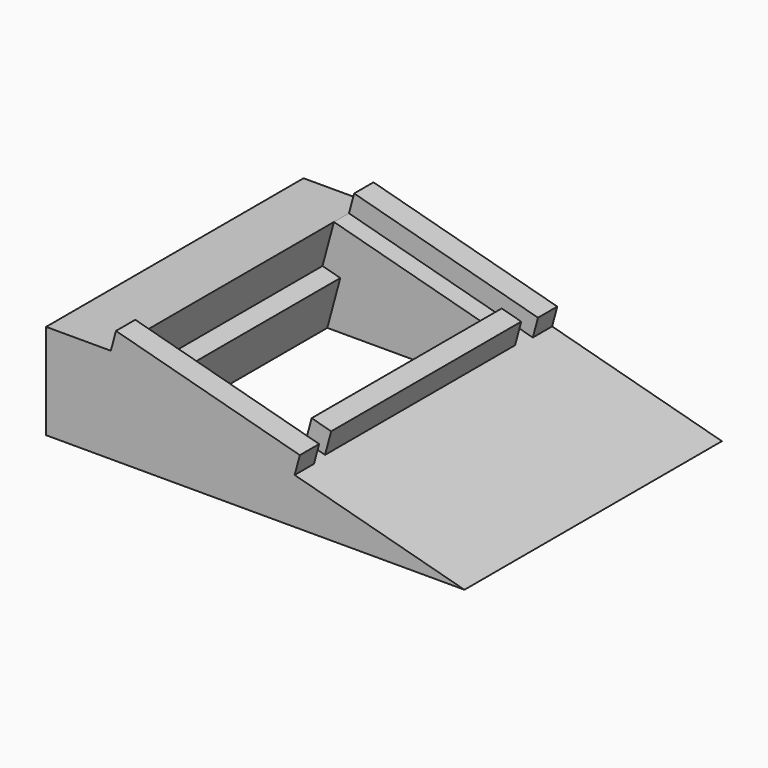
from build123d import *

# Parameters (mm, degrees)
F0_W      = 100
F0_H      = 60
F1_DEPTH  = 31
F3_DEPTH  = 60.001
F4_W      = 30.1
F4_H      = 44.45
F5_DEPTH  = 26.0514508643
F6_W      = 3.4385170311
F6_H      = 44.45
F7_DEPTH  = 8.2
F8_DEPTH  = 2.2
F9_DEPTH  = 22
F10_W     = 3.7688823059
F10_H     = 44.2940850452
F11_DEPTH = 3.6
F12_W     = 35.5
F12_H     = 4.5
F13_DEPTH = 3.7
F14_DEPTH = 0.8
F15_W     = 12
F15_H     = 44.45
F17_DEPTH = 0.7
F18_W     = 10
F18_H     = 44.45
F19_DEPTH = 0.7
F21_DEPTH = 70.6


with BuildPart() as f1:
    # F0 (on Top) → F1 (new body)
    with BuildSketch(Plane.XY):
        with Locations((0.4987093992, -30)):
            Rectangle(F0_W, F0_H)
    extrude(amount=F1_DEPTH)

    # F2 (on face) → F3 (cut, through all)
    with BuildSketch(Plane.XZ.offset(60)):
        Polygon((-49.5012906008, 26.9820707818), (50.4987093992, 0), (50.4987093992, 31), (-49.5012906008, 31), align=None)
    extrude(amount=-F3_DEPTH, mode=Mode.SUBTRACT)

    # F4 (on face) → F5 (cut, through all)
    with BuildSketch(Plane(origin=(3.4269736671, 0, 12.7009290534), x_dir=(0.9654726309, 0, -0.2605045086), z_dir=(0.2605045086, 0, 0.9654726309))):
        with Locations((-1.0446142405, -30.225)):
            Rectangle(F4_W, F4_H)
    extrude(amount=-F5_DEPTH, mode=Mode.SUBTRACT)

    # F6 (on face) → F7 (cut)
    with BuildSketch(Plane(origin=(3.4269736671, 0, 12.7009290534), x_dir=(0.9654726309, 0, -0.2605045086), z_dir=(0.2605045086, 0, 0.9654726309))):
        with Locations((-17.8138727561, -30.225)):
            Rectangle(F6_W, F6_H)
    extrude(amount=-F7_DEPTH, mode=Mode.SUBTRACT)

    # F8 (add): a face of the model
    f8_faces = [f1.faces().sort_by_distance(p)[0] for p in [
        (15.7275193268, -30.225, 4.5262314589),
    ]]
    extrude(f8_faces, amount=F8_DEPTH)

    # F9 (cut): a face of the model
    f9_faces = [f1.faces().sort_by_distance(p)[0] for p in [
        (-49.5012906008, -30, 13.4910353909),
    ]]
    extrude(f9_faces, amount=-F9_DEPTH, mode=Mode.SUBTRACT)

    # F10 (on face) → F11 (join)
    with BuildSketch(Plane(origin=(3.4269736671, 0, 12.7009290534), x_dir=(0.9654726309, 0, -0.2605045086), z_dir=(0.2605045086, 0, 0.9654726309))):
        with Locations((13.6898269124, -30.3029574774)):
            Rectangle(F10_W, F10_H)
    extrude(amount=F11_DEPTH)

    # F12 (on face) → F13 (join)
    with BuildSketch(Plane(origin=(3.4269736671, 0, 12.7009290534), x_dir=(0.9654726309, 0, -0.2605045086), z_dir=(0.2605045086, 0, 0.9654726309))):
        with Locations((-1.7831312716, -2.25)):
            Rectangle(F12_W, F12_H)
        with Locations((-1.7831312716, -57.75)):
            Rectangle(F12_W, F12_H)
    extrude(amount=F13_DEPTH)

    # F14 (add): a face of the model
    f14_faces = [f1.faces().sort_by_distance(p)[0] for p in [
        (17.5819431037, -30.3029574774, 12.6103688914),
    ]]
    extrude(f14_faces, amount=F14_DEPTH)

    # F15 (on face) → F17 (cut)
    with BuildSketch(Plane(origin=(0, 0, 0), x_dir=(1, 0, 0), z_dir=(0, 0, -1))):
        with Locations((26.5654576292, 30.3591284901)):
            Rectangle(F15_W, F15_H)
    extrude(amount=-F17_DEPTH, mode=Mode.SUBTRACT)

    # F18 (on face) → F19 (cut)
    with BuildSketch(Plane(origin=(0, 0, 0), x_dir=(1, 0, 0), z_dir=(0, 0, -1))):
        with Locations((-21.6701921171, 30.225)):
            Rectangle(F18_W, F18_H)
    extrude(amount=-F19_DEPTH, mode=Mode.SUBTRACT)

    # F20 (on face) → F21 (cut)
    with BuildSketch(Plane.XZ.offset(60)):
        Polygon((-27.5012906008, 17.7893978176), (-15.431729971, 17.7893978176), (-27.5012906008, 21.0460152098), align=None)
    extrude(amount=-F21_DEPTH, mode=Mode.SUBTRACT)


solid = f1.part
